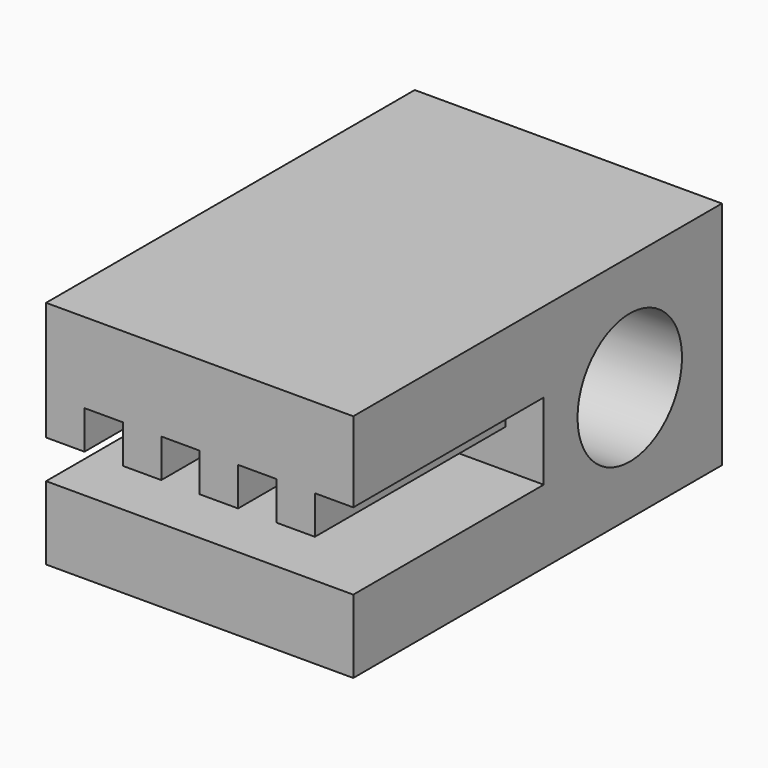
from build123d import *

# Parameters (mm, degrees)
F0_W     = 8
F0_H     = 12
F1_DEPTH = 6
F3_DEPTH = 6.2
F4_R     = 1.7
F5_DEPTH = 25


with BuildPart() as f1:
    # F0 (on Top) → F1 (new body)
    with BuildSketch(Plane.XY):
        with Locations((10.135715, 1.112354)):
            Rectangle(F0_W, F0_H)
    extrude(amount=F1_DEPTH)

    # F2 (on face) → F3 (cut)
    with BuildSketch(Plane.XZ.offset(4.887646)):
        Polygon((6.135715, 2.910965), (6.135715, 1.910965), (14.135715, 1.910965), (14.135715, 2.910965), (14.135715, 3.910965), (13.135715, 3.910965), (13.135715, 2.910965), (12.135715, 2.910965), (12.135715, 3.910965), (11.135715, 3.910965), (11.135715, 2.910965), (10.135715, 2.910965), (10.135715, 3.910965), (9.135715, 3.910965), (9.135715, 2.910965), (8.135715, 2.910965), (8.135715, 3.910965), (7.135715, 3.910965), (7.135715, 2.910965), align=None)
    extrude(amount=-F3_DEPTH, mode=Mode.SUBTRACT)

    # F4 (on face) → F5 (cut)
    with BuildSketch(Plane(origin=(6.135715, 0, 0), x_dir=(0, -1, 0), z_dir=(-1, 0, 0))):
        with Locations((-4.112354, 3)):
            Circle(F4_R)
    extrude(amount=-F5_DEPTH, mode=Mode.SUBTRACT)


solid = f1.part
